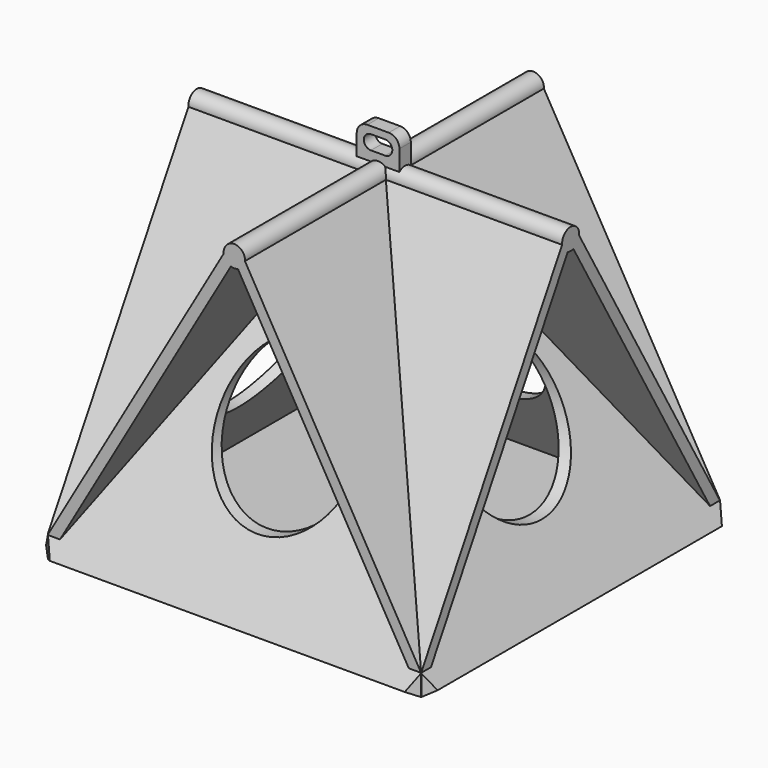
from build123d import *

# Parameters (mm, degrees)
BOX008_W                  = 10
BOX008_H                  = 10
BOX008_DEPTH              = 10
BOX008_PLACEMENT_ANGLE    = 45
BOX010_W                  = 10
BOX010_H                  = 10
BOX010_DEPTH              = 10
BOX010_PLACEMENT_ANGLE    = 45
BOX011_W                  = 10
BOX011_H                  = 10
BOX011_DEPTH              = 10
BOX011_PLACEMENT_ANGLE    = 45
BOX009_W                  = 10
BOX009_H                  = 10
BOX009_DEPTH              = 10
BOX009_PLACEMENT_ANGLE    = 45
CYLINDER002_R             = 20
CYLINDER002_DEPTH         = 105
CYLINDER003_R             = 20
CYLINDER003_DEPTH         = 105
CYLINDER001_R             = 3
CYLINDER001_DEPTH         = 105
BOX004_W                  = 105
BOX004_H                  = 105
BOX004_DEPTH              = 3
BOX004_PLACEMENT_ANGLE    = 60
BOX005_W                  = 105
BOX005_H                  = 105
BOX005_DEPTH              = 3
BOX005_PLACEMENT_ANGLE    = 60
BOX006_W                  = 105
BOX006_H                  = 105
BOX006_DEPTH              = 3
FUSION001_PLACEMENT_ANGLE = 90
CYLINDER_R                = 3
CYLINDER_DEPTH            = 105
BOX003_W                  = 105
BOX003_H                  = 105
BOX003_DEPTH              = 3
BOX003_PLACEMENT_ANGLE    = 300
BOX002_W                  = 105
BOX002_H                  = 105
BOX002_DEPTH              = 3
BOX002_PLACEMENT_ANGLE    = 60
BOX001_W                  = 105
BOX001_H                  = 105
BOX001_DEPTH              = 3
CYLINDER005_R             = 2
CYLINDER005_DEPTH         = 10
CYLINDER004_R             = 2
CYLINDER004_DEPTH         = 10
BOX007_W                  = 4
BOX007_H                  = 4
BOX007_DEPTH              = 10
FUSION004_PLACEMENT_ANGLE = 90
BOX_W                     = 12
BOX_H                     = 4
BOX_DEPTH                 = 12
FILLET_R                  = 3


with BuildPart() as cube008:
    # Box008 → Box008 (new body)
    with BuildSketch(Plane.XY):
        with Locations((5, 5)):
            Rectangle(BOX008_W, BOX008_H)
    extrude(amount=BOX008_DEPTH)


with BuildPart() as cube008_1:
    # Box008 placement: moved
    add(cube008.part.moved(Location((-3, -11, 0))).rotate(Axis((-3, -11, 0), (0, 0, 1)), BOX008_PLACEMENT_ANGLE))


with BuildPart() as cube010:
    # Box010 → Box010 (new body)
    with BuildSketch(Plane.XY):
        with Locations((5, 5)):
            Rectangle(BOX010_W, BOX010_H)
    extrude(amount=BOX010_DEPTH)


with BuildPart() as cube010_1:
    # Box010 placement: moved
    add(cube010.part.moved(Location((108.2, -11, 0))).rotate(Axis((108.2, -11, 0), (0, 0, 1)), BOX010_PLACEMENT_ANGLE))


with BuildPart() as cube011:
    # Box011 → Box011 (new body)
    with BuildSketch(Plane.XY):
        with Locations((5, 5)):
            Rectangle(BOX011_W, BOX011_H)
    extrude(amount=BOX011_DEPTH)


with BuildPart() as cube011_1:
    # Box011 placement: moved
    add(cube011.part.moved(Location((108.2, 101.8, 0))).rotate(Axis((108.2, 101.8, 0), (0, 0, 1)), BOX011_PLACEMENT_ANGLE))


with BuildPart() as fusion005:
    # Box009 → Box009 (new body)
    with BuildSketch(Plane.XY):
        with Locations((5, 5)):
            Rectangle(BOX009_W, BOX009_H)
    extrude(amount=BOX009_DEPTH)


with BuildPart() as fusion005_1:
    # Box009 placement: moved
    add(fusion005.part.moved(Location((-3, 102, 0))).rotate(Axis((-3, 102, 0), (0, 0, 1)), BOX009_PLACEMENT_ANGLE))

    # Fusion005: union Cube008, Cube010, Cube011
    add(cube008_1.part)
    add(cube010_1.part)
    add(cube011_1.part)


with BuildPart() as cylinder002:
    # Cylinder002 → Cylinder002 (new body)
    with BuildSketch(Plane(origin=(52.5, 105, 40), x_dir=(1, 0, 0), z_dir=(0, -1, 0))):
        Circle(CYLINDER002_R)
    extrude(amount=CYLINDER002_DEPTH)


with BuildPart() as fusion003:
    # Cylinder003 → Cylinder003 (new body)
    with BuildSketch(Plane(origin=(0, 52.5, 40), x_dir=(0, 0, -1), z_dir=(1, 0, 0))):
        Circle(CYLINDER003_R)
    extrude(amount=CYLINDER003_DEPTH)

    # Fusion003: union Cylinder002
    add(cylinder002.part)


with BuildPart() as cylinder001:
    # Cylinder001 → Cylinder001 (new body)
    with BuildSketch(Plane(origin=(0, 52.5, 92), x_dir=(0, 0, -1), z_dir=(1, 0, 0))):
        Circle(CYLINDER001_R)
    extrude(amount=CYLINDER001_DEPTH)


with BuildPart() as cube004:
    # Box004 → Box004 (new body)
    with BuildSketch(Plane.XY):
        with Locations((52.5, 52.5)):
            Rectangle(BOX004_W, BOX004_H)
    extrude(amount=BOX004_DEPTH)


with BuildPart() as cube004_1:
    # Box004 placement: moved
    add(cube004.part.moved(Location((0, 52.4, 91))).rotate(Axis((0, 52.4, 91), (-1, 0, 0)), BOX004_PLACEMENT_ANGLE))


with BuildPart() as cube005:
    # Box005 → Box005 (new body)
    with BuildSketch(Plane.XY):
        with Locations((52.5, 52.5)):
            Rectangle(BOX005_W, BOX005_H)
    extrude(amount=BOX005_DEPTH)


with BuildPart() as cube005_1:
    # Box005 placement: moved
    add(cube005.part.rotate(Axis((0, 0, 0), (1, 0, 0)), BOX005_PLACEMENT_ANGLE))


with BuildPart() as fusion001:
    # Box006 → Box006 (new body)
    with BuildSketch(Plane.XY):
        with Locations((52.5, 52.5)):
            Rectangle(BOX006_W, BOX006_H)
    extrude(amount=BOX006_DEPTH)

    # Fusion001: union Cylinder001, Cube004, Cube005
    add(cylinder001.part)
    add(cube004_1.part)
    add(cube005_1.part)


with BuildPart() as fusion001_1:
    # Fusion001 placement: moved
    add(fusion001.part.moved(Location((105, 0, 0))).rotate(Axis((105, 0, 0), (0, 0, 1)), FUSION001_PLACEMENT_ANGLE))


with BuildPart() as cylinder:
    # Cylinder → Cylinder (new body)
    with BuildSketch(Plane(origin=(0, 52.5, 92), x_dir=(0, 0, -1), z_dir=(1, 0, 0))):
        Circle(CYLINDER_R)
    extrude(amount=CYLINDER_DEPTH)


with BuildPart() as cube003:
    # Box003 → Box003 (new body)
    with BuildSketch(Plane.XY):
        with Locations((52.5, 52.5)):
            Rectangle(BOX003_W, BOX003_H)
    extrude(amount=BOX003_DEPTH)


with BuildPart() as cube003_1:
    # Box003 placement: moved
    add(cube003.part.moved(Location((0, 52.4, 91))).rotate(Axis((0, 52.4, 91), (1, 0, 0)), BOX003_PLACEMENT_ANGLE))


with BuildPart() as cube002:
    # Box002 → Box002 (new body)
    with BuildSketch(Plane.XY):
        with Locations((52.5, 52.5)):
            Rectangle(BOX002_W, BOX002_H)
    extrude(amount=BOX002_DEPTH)


with BuildPart() as cube002_1:
    # Box002 placement: moved
    add(cube002.part.rotate(Axis((0, 0, 0), (1, 0, 0)), BOX002_PLACEMENT_ANGLE))


with BuildPart() as cut002:
    # Box001 → Box001 (new body)
    with BuildSketch(Plane.XY):
        with Locations((52.5, 52.5)):
            Rectangle(BOX001_W, BOX001_H)
    extrude(amount=BOX001_DEPTH)

    # Fusion: union Cylinder, Cube003, Cube002
    add(cylinder.part)
    add(cube003_1.part)
    add(cube002_1.part)

    # Fusion002: union Fusion001
    add(fusion001_1.part)

    # Cut: cut Fusion003
    add(fusion003.part, mode=Mode.SUBTRACT)

    # Cut002: cut Fusion005
    add(fusion005_1.part, mode=Mode.SUBTRACT)


with BuildPart() as cylinder005:
    # Cylinder005 → Cylinder005 (new body)
    with BuildSketch(Plane.XY):
        Circle(CYLINDER005_R)
    extrude(amount=CYLINDER005_DEPTH)


with BuildPart() as cylinder004:
    # Cylinder004 → Cylinder004 (new body)
    with BuildSketch(Plane(origin=(4, 0, 0), x_dir=(1, 0, 0), z_dir=(0, 0, 1))):
        Circle(CYLINDER004_R)
    extrude(amount=CYLINDER004_DEPTH)


with BuildPart() as fusion004:
    # Box007 → Box007 (new body)
    with BuildSketch(Plane(origin=(0, -2, 0), x_dir=(1, 0, 0), z_dir=(0, 0, 1))):
        with Locations((2, 2)):
            Rectangle(BOX007_W, BOX007_H)
    extrude(amount=BOX007_DEPTH)

    # Fusion004: union Cylinder005, Cylinder004
    add(cylinder005.part)
    add(cylinder004.part)


with BuildPart() as fusion004_1:
    # Fusion004 placement: moved
    add(fusion004.part.moved(Location((50.5, 57, 99))).rotate(Axis((50.5, 57, 99), (1, 0, 0)), FUSION004_PLACEMENT_ANGLE))


with BuildPart() as obj1:
    # Box → Box (new body)
    with BuildSketch(Plane(origin=(46.5, 50.5, 91), x_dir=(1, 0, 0), z_dir=(0, 0, 1))):
        with Locations((6, 2)):
            Rectangle(BOX_W, BOX_H)
    extrude(amount=BOX_DEPTH)

    # Fillet
    fillet_edges = [obj1.edges().sort_by_distance(p)[0] for p in [
        (46.5, 52.5, 103),
        (58.5, 52.5, 103),
    ]]
    fillet(fillet_edges, radius=FILLET_R)

    # Cut001: cut Fusion004
    add(fusion004_1.part, mode=Mode.SUBTRACT)

    # Fusion006: union Cut002
    add(cut002.part)


solid = obj1.part
